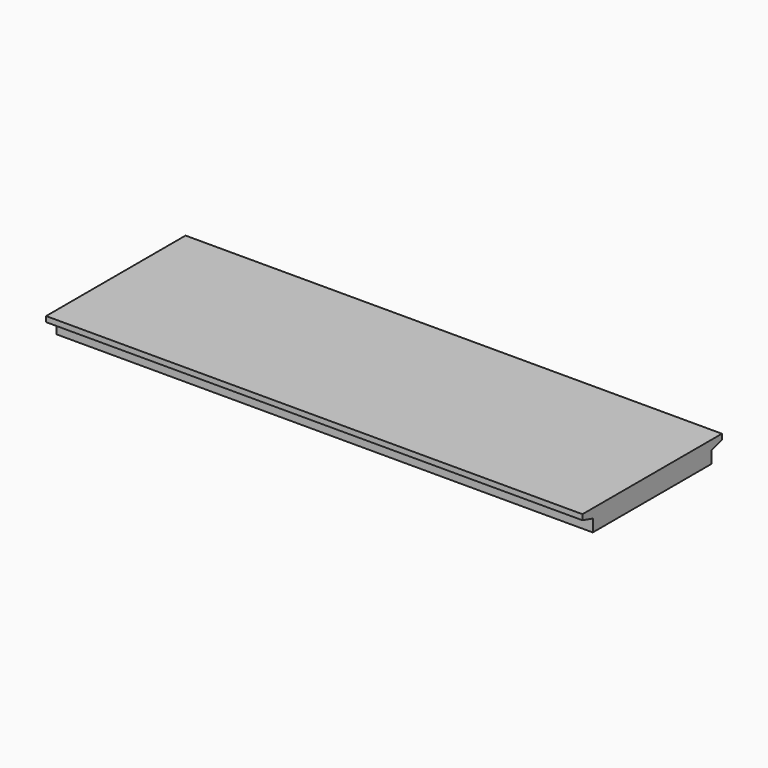
from build123d import *

# Parameters (mm, degrees)
F0_W     = 101.6
F0_H     = 33.02
F1_DEPTH = 4.0386
F3_DEPTH = 76.2
F4_DEPTH = 38.1
F5_DEPTH = 38.1


with BuildPart() as f1:
    # F0 (on Top) → F1 (new body)
    with BuildSketch(Plane.XY):
        Rectangle(F0_W, F0_H)
    extrude(amount=F1_DEPTH)

    # F2 (on face) → F3 (cut)
    with BuildSketch(Plane.YZ.offset(50.8)):
        Polygon((-16.51, 0), (-14.06698055, 0), (-14.06698055, 2.3274338565), (-16.51, 3.0226), align=None)
        Polygon((16.51, 0), (16.51, 3.0226), (14.06698055, 2.3274338565), (14.06698055, 0), align=None)
    extrude(amount=-F3_DEPTH, mode=Mode.SUBTRACT)

    # F4 (cut): a face of the model
    f4_faces = [f1.faces().sort_by_distance(p)[0] for p in [
        (-25.4, -15.3413966196, 1.345035768),
    ]]
    extrude(f4_faces, amount=-F4_DEPTH, mode=Mode.SUBTRACT)

    # F5 (cut): a face of the model
    f5_faces = [f1.faces().sort_by_distance(p)[0] for p in [
        (-25.4, 15.3413966196, 1.345035768),
    ]]
    extrude(f5_faces, amount=-F5_DEPTH, mode=Mode.SUBTRACT)


solid = f1.part
